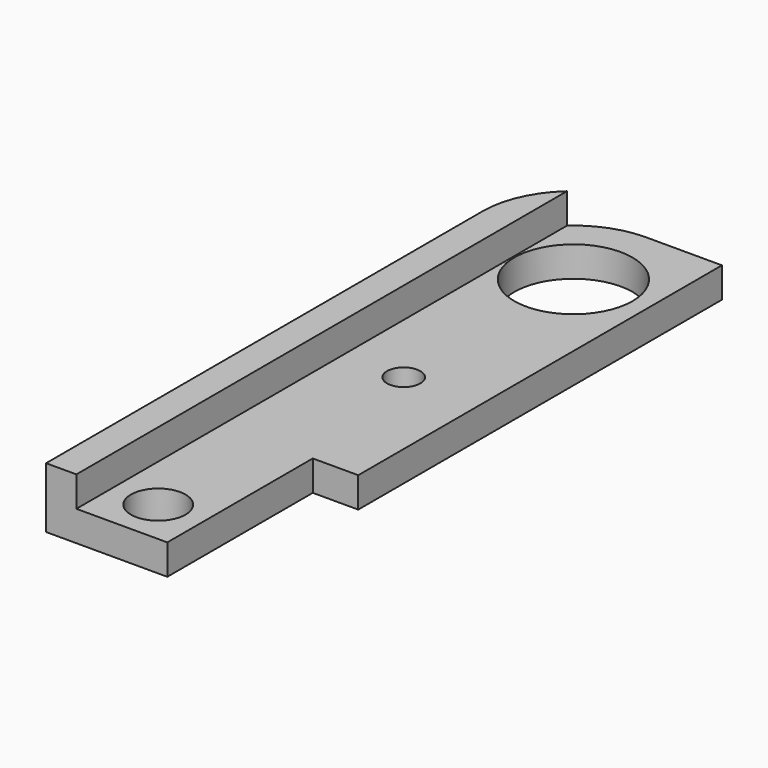
from build123d import *

# Parameters (mm, degrees)
SKETCH_R     = 1.8
SKETCH_R_2   = 3.9
SKETCH_R_3   = 1.1
PAD_DEPTH    = 2
SKETCH001_W  = 2
SKETCH001_H  = 42
PAD001_DEPTH = 2
POCKET_DEPTH = 4.001


with BuildPart() as part:
    # Sketch → Pad (new body)
    with BuildSketch(Plane.XY):
        Polygon((-8, 42), (3, 42), (3, 12), (0, 12), (0, 0), (-8, 0), align=None)
        with Locations((-3, 3)):
            Circle(SKETCH_R, mode=Mode.SUBTRACT)
        with Locations((-2, 36)):
            Circle(SKETCH_R_2, mode=Mode.SUBTRACT)
        with Locations((-2, 22)):
            Circle(SKETCH_R_3, mode=Mode.SUBTRACT)
    extrude(amount=PAD_DEPTH)

    # Sketch001 → Pad001 (new body)
    with BuildSketch(Plane.XY.offset(2)):
        with Locations((-7, 21)):
            Rectangle(SKETCH001_W, SKETCH001_H)
    extrude(amount=PAD001_DEPTH)

    # Sketch002 → Pocket (cut, through all)
    with BuildSketch(Plane.XY.offset(4)):
        with BuildLine():
            ThreePointArc((-2.000021, 42), (-6.242641, 40.242641), (-8, 36.000021))
            Line((-8, 36.000021), (-8, 42))
            Line((-8, 42), (-2.000021, 42))
        make_face()
    extrude(amount=-POCKET_DEPTH, mode=Mode.SUBTRACT)


solid = part.part
